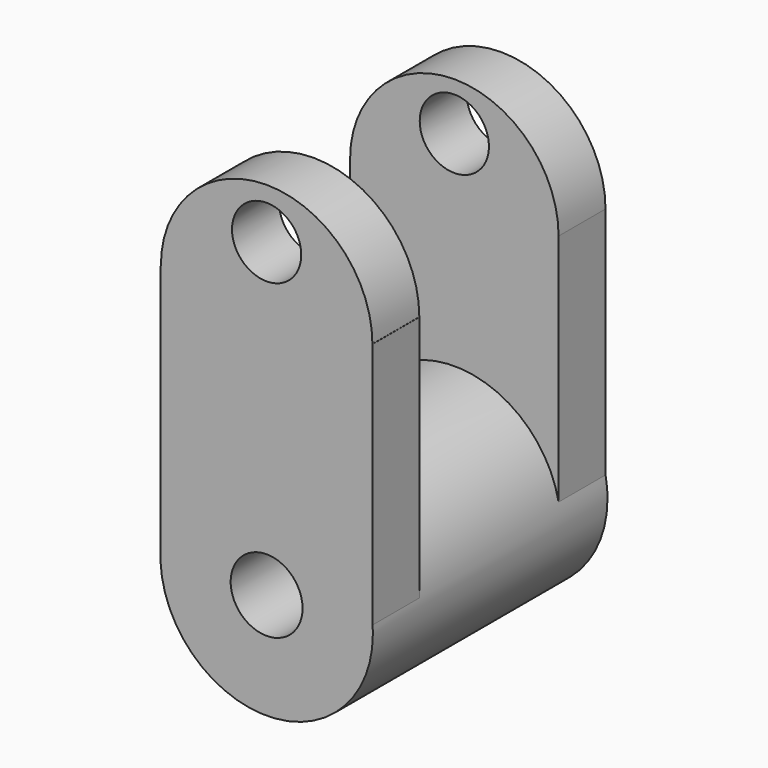
from build123d import *

# Parameters (mm, degrees)
F0_R      = 45.9953933043
F1_DEPTH  = 127
F2_R      = 15.5126771319
F3_DEPTH  = 127
F4_W      = 91.7238295078
F4_H      = 110.3479489684
F5_DEPTH  = 25.4
F6_R      = 15.5623091615
F7_DEPTH  = 127
F8_R      = 45.8026969915
F9_DEPTH  = 25.4
F10_W     = 90.2835130692
F10_H     = 110.5170249939
F11_DEPTH = 25.4
F12_R     = 15.4559946756
F13_DEPTH = 127
F15_DEPTH = 25.4
F16_R     = 14.9850437789
F17_DEPTH = 127


with BuildPart() as f1:
    # F0 (on Front) → F1 (new body)
    with BuildSketch(Plane.XZ):
        Circle(F0_R)
    extrude(amount=F1_DEPTH)

    # F2 (on Front) → F3 (cut)
    with BuildSketch(Plane.XZ):
        Circle(F2_R)
    extrude(amount=F3_DEPTH, mode=Mode.SUBTRACT)

    # F4 (on face) → F5 (join)
    with BuildSketch(Plane.XZ.offset(127)):
        with Locations((0, 55.4068051279)):
            Rectangle(F4_W, F4_H)
    extrude(amount=-F5_DEPTH)

    # F6 (on face) → F7 (cut)
    with BuildSketch(Plane.XZ.offset(127)):
        Circle(F6_R)
    extrude(amount=-F7_DEPTH, mode=Mode.SUBTRACT)

    # F8 (on face) → F9 (join)
    with BuildSketch(Plane.XZ.offset(127)):
        with Locations((0, 110.5807796121)):
            Circle(F8_R)
    extrude(amount=-F9_DEPTH)

    # F10 (on face) → F11 (join)
    with BuildSketch(Plane(origin=(0, 0, 0), x_dir=(-1, 0, 0), z_dir=(0, 1, 0))):
        with Locations((0, 54.9663677812)):
            Rectangle(F10_W, F10_H)
    extrude(amount=-F11_DEPTH)

    # F12 (on face) → F13 (cut)
    with BuildSketch(Plane(origin=(0, 0, 0), x_dir=(-1, 0, 0), z_dir=(0, 1, 0))):
        Circle(F12_R)
    extrude(amount=-F13_DEPTH, mode=Mode.SUBTRACT)

    # F14 (on face) → F15 (join)
    with BuildSketch(Plane(origin=(0, 0, 0), x_dir=(-1, 0, 0), z_dir=(0, 1, 0))):
        with BuildLine():
            Line((-45.1417565346, 110.2248802781), (45.1417565346, 110.2248802781))
            ThreePointArc((45.1417565346, 110.2248802781), (0, 155.3666368127), (-45.1417565346, 110.2248802781))
        make_face()
    extrude(amount=-F15_DEPTH)

    # F16 (on face) → F17 (cut)
    with BuildSketch(Plane(origin=(0, 0, 0), x_dir=(-1, 0, 0), z_dir=(0, 1, 0))):
        with Locations((0, 134.5566511154)):
            Circle(F16_R)
    extrude(amount=-F17_DEPTH, mode=Mode.SUBTRACT)


solid = f1.part
